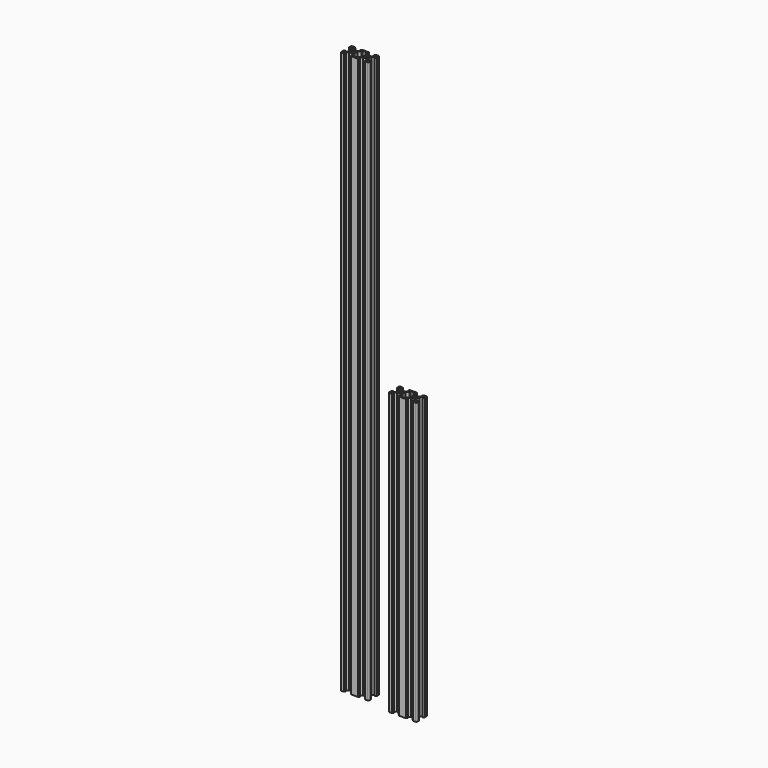
from build123d import *

# Parameters (mm, degrees)
F0_R     = 2.1
F1_DEPTH = 400
F2_R     = 2.1
F3_DEPTH = 800


with BuildPart() as f1:
    # F0 (on Top) → F1 (new body)
    with BuildSketch(Plane.XY):
        with BuildLine():
            ThreePointArc((0, 1.43953), (0.371974, 0.541505), (1.27, 0.16953))
            Line((1.27, 0.16953), (4.84763, 0.16953))
            Line((4.84763, 0.16953), (6.65103, 1.97293))
            Line((6.65103, 1.97293), (4.51407, 1.97293))
            Line((4.51407, 1.97293), (4.51407, 3.62393))
            Line((4.51407, 3.62393), (7.10487, 6.21473))
            Line((7.10487, 6.21473), (12.801191, 6.21473))
            Line((12.801191, 6.21473), (15.384144, 3.631777))
            Line((15.384144, 3.631777), (15.384144, 1.97293))
            Line((15.384144, 1.97293), (13.25503, 1.97293))
            Line((13.25503, 1.97293), (15.05843, 0.16953))
            Line((15.05843, 0.16953), (19.932331, 0.16953))
            Line((19.932331, 0.16953), (24.806232, 0.16953))
            Line((24.806232, 0.16953), (26.609632, 1.97293))
            Line((26.609632, 1.97293), (24.480518, 1.97293))
            Line((24.480518, 1.97293), (24.480518, 3.631777))
            Line((24.480518, 3.631777), (27.063472, 6.21473))
            Line((27.063472, 6.21473), (32.759792, 6.21473))
            Line((32.759792, 6.21473), (35.350592, 3.62393))
            Line((35.350592, 3.62393), (35.350592, 1.97293))
            Line((35.350592, 1.97293), (33.213632, 1.97293))
            Line((33.213632, 1.97293), (35.017032, 0.16953))
            Line((35.017032, 0.16953), (38.594662, 0.16953))
            ThreePointArc((38.594662, 0.16953), (39.492688, 0.541505), (39.864662, 1.43953))
            Line((39.864662, 1.43953), (39.864662, 5.013801))
            Line((39.864662, 5.013801), (38.061262, 6.817201))
            Line((38.061262, 6.817201), (38.061262, 4.683601))
            Line((38.061262, 4.683601), (36.410262, 4.683601))
            Line((36.410262, 4.683601), (33.819462, 7.274401))
            Line((33.819462, 7.274401), (33.819462, 12.964001))
            Line((33.819462, 12.964001), (36.410262, 15.554801))
            Line((36.410262, 15.554801), (38.061262, 15.554801))
            Line((38.061262, 15.554801), (38.061262, 13.421201))
            Line((38.061262, 13.421201), (39.864662, 15.224601))
            Line((39.864662, 15.224601), (39.864662, 18.73))
            ThreePointArc((39.864662, 18.73), (39.492688, 19.628026), (38.594662, 20))
            Line((38.594662, 20), (34.959539, 20))
            Line((34.959539, 20), (33.159539, 18.2))
            Line((33.159539, 18.2), (35.285121, 18.2))
            Line((35.285121, 18.2), (35.285121, 16.549))
            Line((35.285121, 16.549), (32.691052, 13.954931))
            Line((32.691052, 13.954931), (27.011052, 13.954931))
            Line((27.011052, 13.954931), (24.405983, 16.56))
            Line((24.405983, 16.56), (24.405983, 18.2))
            Line((24.405983, 18.2), (26.542565, 18.2))
            Line((26.542565, 18.2), (24.742565, 20))
            Line((24.742565, 20), (19.932331, 20))
            Line((19.932331, 20), (15.122098, 20))
            Line((15.122098, 20), (13.322098, 18.2))
            Line((13.322098, 18.2), (15.45868, 18.2))
            Line((15.45868, 18.2), (15.45868, 16.56))
            Line((15.45868, 16.56), (12.85361, 13.954931))
            Line((12.85361, 13.954931), (7.17361, 13.954931))
            Line((7.17361, 13.954931), (4.579541, 16.549))
            Line((4.579541, 16.549), (4.579541, 18.2))
            Line((4.579541, 18.2), (6.705123, 18.2))
            Line((6.705123, 18.2), (4.905123, 20))
            Line((4.905123, 20), (1.27, 20))
            ThreePointArc((1.27, 20), (0.371974, 19.628026), (0, 18.73))
            Line((0, 18.73), (0, 15.224601))
            Line((0, 15.224601), (1.8034, 13.421201))
            Line((1.8034, 13.421201), (1.8034, 15.554801))
            Line((1.8034, 15.554801), (3.4544, 15.554801))
            Line((3.4544, 15.554801), (6.0452, 12.964001))
            Line((6.0452, 12.964001), (6.0452, 7.274401))
            Line((6.0452, 7.274401), (3.4544, 4.683601))
            Line((3.4544, 4.683601), (1.8034, 4.683601))
            Line((1.8034, 4.683601), (1.8034, 6.817201))
            Line((1.8034, 6.817201), (0, 5.013801))
            Line((0, 5.013801), (0, 1.43953))
        make_face()
        Polygon((1.8034, 1.97293), (1.8034, 3.616801), (2.341599, 3.616801), (3.44727, 2.511129), (3.44727, 1.97293), align=None, mode=Mode.SUBTRACT)
        with Locations((10, 10)):
            Circle(F0_R, mode=Mode.SUBTRACT)
        Polygon((37.523063, 3.616801), (38.061262, 3.616801), (38.061262, 1.97293), (36.417392, 1.97293), (36.417392, 2.511129), align=None, mode=Mode.SUBTRACT)
        with Locations((29.864662, 10)):
            Circle(F0_R, mode=Mode.SUBTRACT)
        Polygon((17.202331, 16.2366), (17.202331, 18.1966), (19.932331, 18.1966), (22.662331, 18.1966), (22.662331, 16.2366), (25.974166, 12.924765), (25.974166, 7.244765), (22.662331, 3.93293), (22.662331, 1.97293), (19.932331, 1.97293), (17.202331, 1.97293), (17.202331, 3.93293), (13.890496, 7.244765), (13.890496, 12.924765), align=None, mode=Mode.SUBTRACT)
        Polygon((1.8034, 16.487259), (1.8034, 18.1966), (3.512741, 18.1966), (3.512741, 17.6632), (2.3368, 16.487259), align=None, mode=Mode.SUBTRACT)
        Polygon((36.351921, 17.6632), (36.351921, 18.1966), (38.061262, 18.1966), (38.061262, 16.487259), (37.527862, 16.487259), align=None, mode=Mode.SUBTRACT)
    extrude(amount=F1_DEPTH)


with BuildPart() as f3:
    # F2 (on Top) → F3 (new body)
    with BuildSketch(Plane.XY):
        with BuildLine():
            ThreePointArc((-73.649292, 8.161735), (-73.277318, 7.26371), (-72.379292, 6.891735))
            Line((-72.379292, 6.891735), (-68.801662, 6.891735))
            Line((-68.801662, 6.891735), (-66.998262, 8.695135))
            Line((-66.998262, 8.695135), (-69.135222, 8.695135))
            Line((-69.135222, 8.695135), (-69.135222, 10.346135))
            Line((-69.135222, 10.346135), (-66.544422, 12.936935))
            Line((-66.544422, 12.936935), (-60.848102, 12.936935))
            Line((-60.848102, 12.936935), (-58.265148, 10.353982))
            Line((-58.265148, 10.353982), (-58.265148, 8.695135))
            Line((-58.265148, 8.695135), (-60.394262, 8.695135))
            Line((-60.394262, 8.695135), (-58.590862, 6.891735))
            Line((-58.590862, 6.891735), (-53.716961, 6.891735))
            Line((-53.716961, 6.891735), (-48.843061, 6.891735))
            Line((-48.843061, 6.891735), (-47.039661, 8.695135))
            Line((-47.039661, 8.695135), (-49.168774, 8.695135))
            Line((-49.168774, 8.695135), (-49.168774, 10.353982))
            Line((-49.168774, 10.353982), (-46.585821, 12.936935))
            Line((-46.585821, 12.936935), (-40.8895, 12.936935))
            Line((-40.8895, 12.936935), (-38.2987, 10.346135))
            Line((-38.2987, 10.346135), (-38.2987, 8.695135))
            Line((-38.2987, 8.695135), (-40.435661, 8.695135))
            Line((-40.435661, 8.695135), (-38.632261, 6.891735))
            Line((-38.632261, 6.891735), (-35.05463, 6.891735))
            ThreePointArc((-35.05463, 6.891735), (-34.156605, 7.26371), (-33.78463, 8.161735))
            Line((-33.78463, 8.161735), (-33.78463, 11.736006))
            Line((-33.78463, 11.736006), (-35.58803, 13.539406))
            Line((-35.58803, 13.539406), (-35.58803, 11.405806))
            Line((-35.58803, 11.405806), (-37.23903, 11.405806))
            Line((-37.23903, 11.405806), (-39.82983, 13.996606))
            Line((-39.82983, 13.996606), (-39.82983, 19.686206))
            Line((-39.82983, 19.686206), (-37.23903, 22.277006))
            Line((-37.23903, 22.277006), (-35.58803, 22.277006))
            Line((-35.58803, 22.277006), (-35.58803, 20.143406))
            Line((-35.58803, 20.143406), (-33.78463, 21.946806))
            Line((-33.78463, 21.946806), (-33.78463, 25.452205))
            ThreePointArc((-33.78463, 25.452205), (-34.156605, 26.350231), (-35.05463, 26.722205))
            Line((-35.05463, 26.722205), (-38.689753, 26.722205))
            Line((-38.689753, 26.722205), (-40.489753, 24.922205))
            Line((-40.489753, 24.922205), (-38.364171, 24.922205))
            Line((-38.364171, 24.922205), (-38.364171, 23.271205))
            Line((-38.364171, 23.271205), (-40.958241, 20.677136))
            Line((-40.958241, 20.677136), (-46.638241, 20.677136))
            Line((-46.638241, 20.677136), (-49.24331, 23.282205))
            Line((-49.24331, 23.282205), (-49.24331, 24.922205))
            Line((-49.24331, 24.922205), (-47.106728, 24.922205))
            Line((-47.106728, 24.922205), (-48.906728, 26.722205))
            Line((-48.906728, 26.722205), (-53.716961, 26.722205))
            Line((-53.716961, 26.722205), (-58.527195, 26.722205))
            Line((-58.527195, 26.722205), (-60.327195, 24.922205))
            Line((-60.327195, 24.922205), (-58.190613, 24.922205))
            Line((-58.190613, 24.922205), (-58.190613, 23.282205))
            Line((-58.190613, 23.282205), (-60.795682, 20.677136))
            Line((-60.795682, 20.677136), (-66.475682, 20.677136))
            Line((-66.475682, 20.677136), (-69.069751, 23.271205))
            Line((-69.069751, 23.271205), (-69.069751, 24.922205))
            Line((-69.069751, 24.922205), (-66.944169, 24.922205))
            Line((-66.944169, 24.922205), (-68.744169, 26.722205))
            Line((-68.744169, 26.722205), (-72.379292, 26.722205))
            ThreePointArc((-72.379292, 26.722205), (-73.277318, 26.350231), (-73.649292, 25.452205))
            Line((-73.649292, 25.452205), (-73.649292, 21.946806))
            Line((-73.649292, 21.946806), (-71.845892, 20.143406))
            Line((-71.845892, 20.143406), (-71.845892, 22.277006))
            Line((-71.845892, 22.277006), (-70.194892, 22.277006))
            Line((-70.194892, 22.277006), (-67.604092, 19.686206))
            Line((-67.604092, 19.686206), (-67.604092, 13.996606))
            Line((-67.604092, 13.996606), (-70.194892, 11.405806))
            Line((-70.194892, 11.405806), (-71.845892, 11.405806))
            Line((-71.845892, 11.405806), (-71.845892, 13.539406))
            Line((-71.845892, 13.539406), (-73.649292, 11.736006))
            Line((-73.649292, 11.736006), (-73.649292, 8.161735))
        make_face()
        Polygon((-71.845892, 8.695135), (-71.845892, 10.339006), (-71.307694, 10.339006), (-70.202022, 9.233334), (-70.202022, 8.695135), align=None, mode=Mode.SUBTRACT)
        with Locations((-63.649292, 16.722205)):
            Circle(F2_R, mode=Mode.SUBTRACT)
        Polygon((-36.126229, 10.339006), (-35.58803, 10.339006), (-35.58803, 8.695135), (-37.2319, 8.695135), (-37.2319, 9.233334), align=None, mode=Mode.SUBTRACT)
        Polygon((-56.446961, 22.958805), (-56.446961, 24.918805), (-53.716961, 24.918805), (-50.986961, 24.918805), (-50.986961, 22.958805), (-47.675127, 19.64697), (-47.675127, 13.96697), (-50.986961, 10.655135), (-50.986961, 8.695135), (-53.716961, 8.695135), (-56.446961, 8.695135), (-56.446961, 10.655135), (-59.758796, 13.96697), (-59.758796, 19.64697), align=None, mode=Mode.SUBTRACT)
        with Locations((-43.78463, 16.722205)):
            Circle(F2_R, mode=Mode.SUBTRACT)
        Polygon((-71.845892, 23.209464), (-71.845892, 24.918805), (-70.136551, 24.918805), (-70.136551, 24.385405), (-71.312492, 23.209464), align=None, mode=Mode.SUBTRACT)
        Polygon((-37.297371, 24.385405), (-37.297371, 24.918805), (-35.58803, 24.918805), (-35.58803, 23.209464), (-36.12143, 23.209464), align=None, mode=Mode.SUBTRACT)
    extrude(amount=F3_DEPTH)


solid = Compound([f1.part, f3.part])
